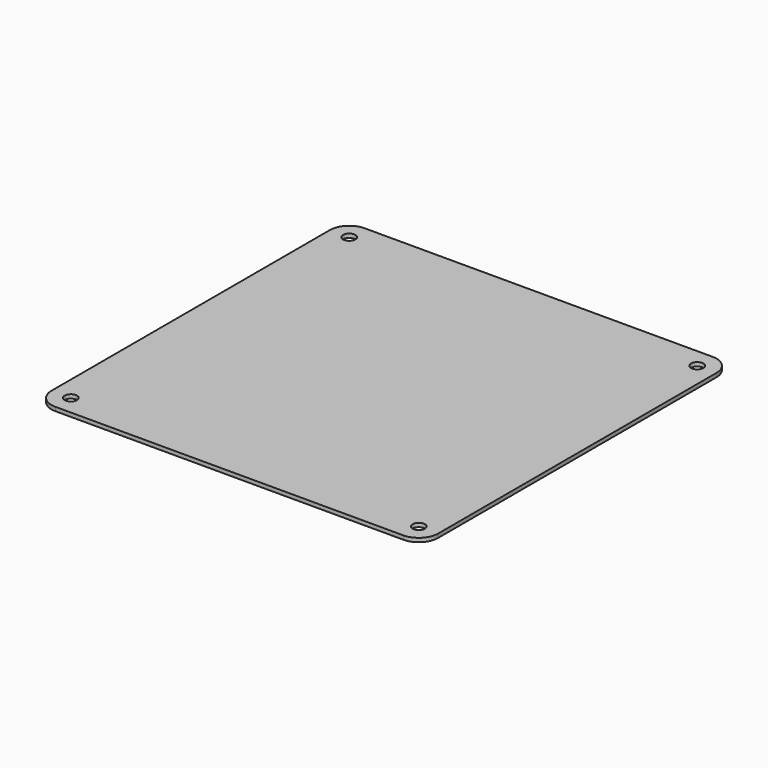
from build123d import *

# Parameters (mm, degrees)
PAD_DEPTH    = 1
SKETCH001_R  = 1.6
POCKET_DEPTH = 1.001


with BuildPart() as part:
    # Sketch → Pad (new body)
    with BuildSketch(Plane.XY):
        with BuildLine():
            Line((-45, 50), (45, 50))
            ThreePointArc((50, 45), (48.535534, 48.535534), (45, 50))
            Line((50, 45), (50, -45))
            ThreePointArc((45, -50), (48.535534, -48.535534), (50, -45))
            Line((45, -50), (-45, -50))
            ThreePointArc((-50, -45), (-48.535534, -48.535534), (-45, -50))
            Line((-50, -45), (-50, 45))
            ThreePointArc((-45, 50), (-48.535534, 48.535534), (-50, 45))
        make_face()
    extrude(amount=PAD_DEPTH)

    # Sketch001 (on Face10 of Pad) → Pocket (cut, through all)
    with BuildSketch(Plane.XY.offset(1)):
        with Locations((-45, 45)):
            Circle(SKETCH001_R)
        with Locations((45, -45)):
            Circle(SKETCH001_R)
        with Locations((-45, -45)):
            Circle(SKETCH001_R)
        with Locations((45, 45)):
            Circle(SKETCH001_R)
    extrude(amount=-POCKET_DEPTH, mode=Mode.SUBTRACT)


solid = part.part
